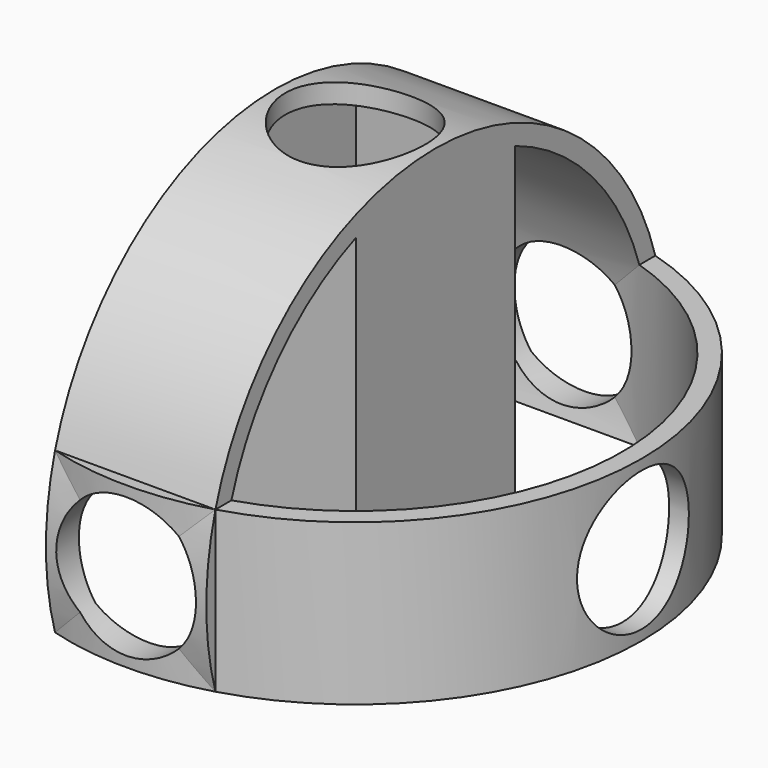
from build123d import *

# Parameters (mm, degrees)
F0_R           = 37.5
F0_R_2         = 35
F1_DEPTH       = 10.5
F2_R           = 9.15
F3_DEPTH       = 37.5
F5_R           = 37.5
F5_R_2         = 35
F6_DEPTH       = 10.5
F4_R           = 9.15
F7_DEPTH       = 37.5
F8_R           = 9.15
F9_DEPTH       = 37.5
F11_DEPTH      = 37.5
F12_W          = 19
F12_H          = 1
F13_DEPTH      = 35
F13_DEPTH_BACK = 10.5


with BuildPart() as f1:
    # F0 (on Top) → F1 (new body, symmetric)
    with BuildSketch(Plane.XY):
        Circle(F0_R)
        Circle(F0_R_2, mode=Mode.SUBTRACT)
    extrude(amount=F1_DEPTH, both=True)

    # F2 (on Right) → F3 (cut, symmetric)
    with BuildSketch(Plane.YZ):
        Circle(F2_R)
    extrude(amount=F3_DEPTH, both=True, mode=Mode.SUBTRACT)

    # F5 (on Right) → F6 (join, symmetric)
    with BuildSketch(Plane.YZ):
        Circle(F5_R)
        Circle(F5_R_2, mode=Mode.SUBTRACT)
    extrude(amount=F6_DEPTH, both=True)

    # F4 (on Front) → F7 (cut, symmetric)
    with BuildSketch(Plane.XZ):
        Circle(F4_R)
    extrude(amount=F7_DEPTH, both=True, mode=Mode.SUBTRACT)

    # F8 (on Top) → F9 (cut, symmetric)
    with BuildSketch(Plane.XY):
        Circle(F8_R)
    extrude(amount=F9_DEPTH, both=True, mode=Mode.SUBTRACT)

    # F10 (on Front) → F11 (cut, symmetric)
    with BuildSketch(Plane.XZ):
        Polygon((-10.5, -10.5), (-10.5, 10.5), (-41.36062, 10.5), (-41.36062, -11.804577), (-13.832303, -11.804577), (-13.832303, -42.368338), (10.5, -42.368338), (10.5, -10.5), align=None)
    extrude(amount=F11_DEPTH, both=True, mode=Mode.SUBTRACT)

    # F12 (on Top) → F13 (join, two sides)
    with BuildSketch(Plane.XY) as f13_sk:
        Polygon((-9.5, 13), (-10.5, 13), (-10.5, -13), (-9.5, -13), (-9.5, -12), (-9.5, 12), align=None)
        with Locations((0, 12.5)):
            Rectangle(F12_W, F12_H)
        with Locations((0, -12.5)):
            Rectangle(F12_W, F12_H)
        Polygon((10.5, 13), (9.5, 13), (9.5, 12), (9.5, 0), (9.5, -12), (9.5, -13), (10.5, -13), align=None)
    extrude(amount=F13_DEPTH)
    extrude(f13_sk.sketch, amount=-F13_DEPTH_BACK)


solid = f1.part
